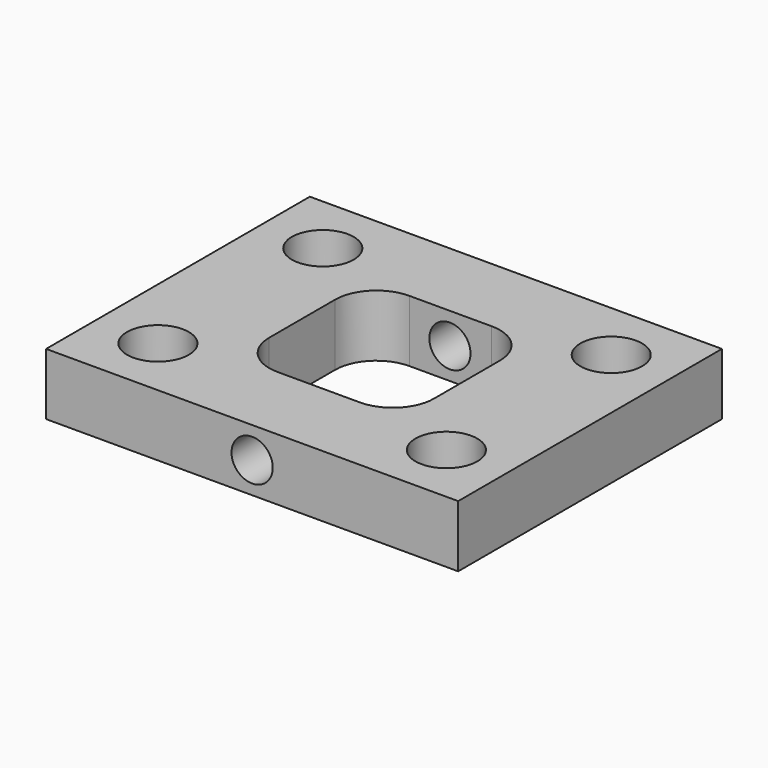
from build123d import *

# Parameters (mm, degrees)
F0_R     = 9.525
F1_DEPTH = 19.05
F3_D     = 12.7
F3_DEPTH = 101.6
F3_TIP   = 3.8154649308
F5_D     = 12.7
F5_DEPTH = 254
F5_TIP   = 3.8154649308


with BuildPart() as f1:
    # F0 (on Top) → F1 (new body)
    with BuildSketch(Plane.XY):
        Polygon((-63.5, 50.8), (-63.5, 0), (-63.5, -50.8), (0, -50.8), (63.5, -50.8), (63.5, 0), (63.5, 50.8), (0, 50.8), align=None)
        with Locations((-44.2700514078, -31.75)):
            Circle(F0_R, mode=Mode.SUBTRACT)
        with Locations((44.6299485922, -31.75)):
            Circle(F0_R, mode=Mode.SUBTRACT)
        with BuildLine():
            ThreePointArc((-25.2200514078, 12.7), (-21.5003075289, 21.6802561211), (-12.5200514078, 25.4))
            Line((-12.5200514078, 25.4), (12.8799485922, 25.4))
            ThreePointArc((12.8799485922, 25.4), (21.8602047133, 21.6802561211), (25.5799485922, 12.7))
            Line((25.5799485922, 12.7), (25.5799485922, -12.7))
            ThreePointArc((25.5799485922, -12.7), (21.8602047133, -21.6802561211), (12.8799485922, -25.4))
            Line((12.8799485922, -25.4), (-12.5200514078, -25.4))
            ThreePointArc((-12.5200514078, -25.4), (-21.5003075289, -21.6802561211), (-25.2200514078, -12.7))
            Line((-25.2200514078, -12.7), (-25.2200514078, 12.7))
        make_face(mode=Mode.SUBTRACT)
        with Locations((-44.2700514078, 31.75)):
            Circle(F0_R, mode=Mode.SUBTRACT)
        with Locations((44.6299485922, 31.75)):
            Circle(F0_R, mode=Mode.SUBTRACT)
    extrude(amount=F1_DEPTH)

    # F3 (one way)
    with BuildSketch(Plane.XZ):
        with Locations((0, 9.525)):
            Circle(F3_D / 2)
    extrude(amount=-F3_DEPTH, mode=Mode.SUBTRACT)
    with Locations(Plane.XZ):
        with Locations((0, 9.525)):
            with Locations((0, 0, -(F3_DEPTH + F3_TIP / 2))):  # 118° drill point
                Cone(0, F3_D / 2, F3_TIP, mode=Mode.SUBTRACT)

    # F5
    with Locations(Plane(origin=(0, 0, 0), x_dir=(1, 0, 0), z_dir=(0, 1, 0))):
        with Locations((0, -9.525)):
            Hole(F5_D / 2, depth=F5_DEPTH)
            with Locations((0, 0, -(F5_DEPTH + F5_TIP / 2))):  # 118° drill point
                Cone(0, F5_D / 2, F5_TIP, mode=Mode.SUBTRACT)


solid = f1.part
